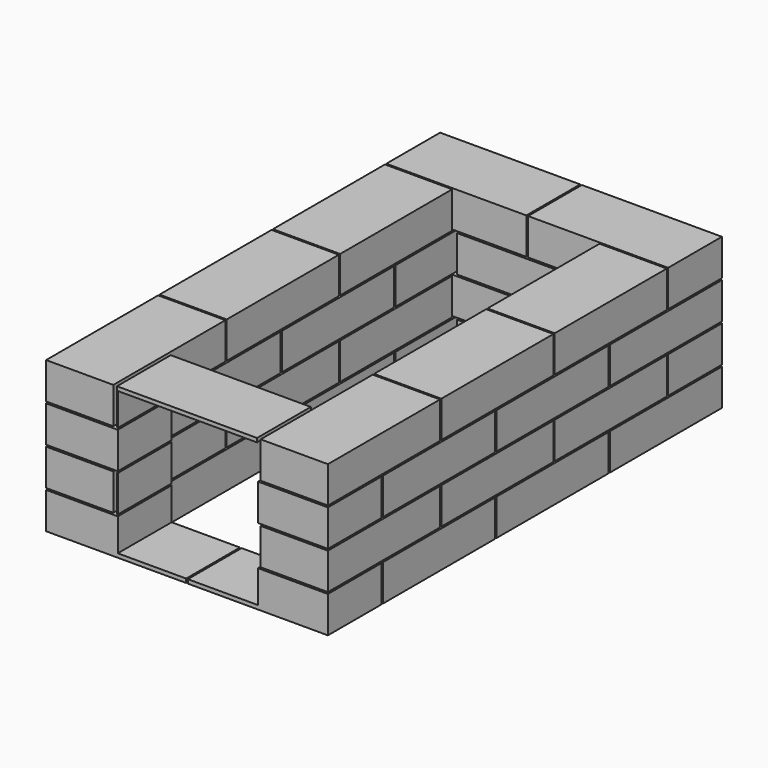
from build123d import *

# Parameters (mm, degrees)
BOX36026_W     = 250
BOX36026_H     = 250
BOX36026_DEPTH = 255
BOX11001_W     = 250
BOX11001_H     = 120
BOX11001_DEPTH = 65
BOX12001_W     = 250
BOX12001_H     = 120
BOX12001_DEPTH = 65
BOX13010_W     = 250
BOX13010_H     = 120
BOX13010_DEPTH = 65
BOX14003_W     = 250
BOX14003_H     = 120
BOX14003_DEPTH = 65
BOX15001_W     = 250
BOX15001_H     = 120
BOX15001_DEPTH = 65
BOX16001_W     = 250
BOX16001_H     = 120
BOX16001_DEPTH = 65
BOX17001_W     = 250
BOX17001_H     = 120
BOX17001_DEPTH = 65
BOX18001_W     = 250
BOX18001_H     = 120
BOX18001_DEPTH = 65
BOX10044_W     = 250
BOX10044_H     = 120
BOX10044_DEPTH = 65
BOX20011_W     = 250
BOX20011_H     = 120
BOX20011_DEPTH = 65
BOX21001_W     = 250
BOX21001_H     = 120
BOX21001_DEPTH = 65
BOX22001_W     = 250
BOX22001_H     = 120
BOX22001_DEPTH = 65
BOX23001_W     = 250
BOX23001_H     = 120
BOX23001_DEPTH = 65
BOX24001_W     = 250
BOX24001_H     = 120
BOX24001_DEPTH = 65
BOX25001_W     = 250
BOX25001_H     = 120
BOX25001_DEPTH = 65
BOX26001_W     = 250
BOX26001_H     = 120
BOX26001_DEPTH = 65
BOX27001_W     = 250
BOX27001_H     = 120
BOX27001_DEPTH = 65
BOX19001_W     = 250
BOX19001_H     = 120
BOX19001_DEPTH = 65
BOX29001_W     = 250
BOX29001_H     = 120
BOX29001_DEPTH = 65
BOX30011_W     = 250
BOX30011_H     = 120
BOX30011_DEPTH = 65
BOX31001_W     = 250
BOX31001_H     = 120
BOX31001_DEPTH = 65
BOX32001_W     = 250
BOX32001_H     = 120
BOX32001_DEPTH = 65
BOX33001_W     = 250
BOX33001_H     = 120
BOX33001_DEPTH = 65
BOX34001_W     = 250
BOX34001_H     = 120
BOX34001_DEPTH = 65
BOX35001_W     = 250
BOX35001_H     = 120
BOX35001_DEPTH = 65
BOX36001_W     = 250
BOX36001_H     = 120
BOX36001_DEPTH = 65
BOX28001_W     = 250
BOX28001_H     = 120
BOX28001_DEPTH = 65
BOX2010_W      = 250
BOX2010_H      = 120
BOX2010_DEPTH  = 65
BOX3010_W      = 250
BOX3010_H      = 120
BOX3010_DEPTH  = 65
BOX4010_W      = 250
BOX4010_H      = 120
BOX4010_DEPTH  = 65
BOX5010_W      = 250
BOX5010_H      = 120
BOX5010_DEPTH  = 65
BOX6010_W      = 250
BOX6010_H      = 120
BOX6010_DEPTH  = 65
BOX7003_W      = 250
BOX7003_H      = 120
BOX7003_DEPTH  = 65
BOX8001_W      = 250
BOX8001_H      = 120
BOX8001_DEPTH  = 65
BOX9001_W      = 250
BOX9001_H      = 120
BOX9001_DEPTH  = 65
BOX1043_W      = 250
BOX1043_H      = 120
BOX1043_DEPTH  = 65


with BuildPart() as box36026:
    with BuildSketch(Plane(origin=(128, -38, 625), x_dir=(1, 0, 0), z_dir=(0, 0, 1))):
        with Locations((125, 125)):
            Rectangle(BOX36026_W, BOX36026_H)
    extrude(amount=BOX36026_DEPTH)


with BuildPart() as box11001:
    with BuildSketch(Plane(origin=(253, 759, 68), x_dir=(1, 0, 0), z_dir=(0, 0, 1))):
        with Locations((125, 60)):
            Rectangle(BOX11001_W, BOX11001_H)
    extrude(amount=BOX11001_DEPTH)


with BuildPart() as box12001:
    with BuildSketch(Plane(origin=(126.5, 0, 68), x_dir=(1, 0, 0), z_dir=(0, 0, 1))):
        with Locations((125, 60)):
            Rectangle(BOX12001_W, BOX12001_H)
    extrude(amount=BOX12001_DEPTH)


with BuildPart() as box13010:
    with BuildSketch(Plane(origin=(120, 0, 68), x_dir=(0, 1, 0), z_dir=(0, 0, 1))):
        with Locations((125, 60)):
            Rectangle(BOX13010_W, BOX13010_H)
    extrude(amount=BOX13010_DEPTH)


with BuildPart() as box14003:
    with BuildSketch(Plane(origin=(120, 253, 68), x_dir=(0, 1, 0), z_dir=(0, 0, 1))):
        with Locations((125, 60)):
            Rectangle(BOX14003_W, BOX14003_H)
    extrude(amount=BOX14003_DEPTH)


with BuildPart() as box15001:
    with BuildSketch(Plane(origin=(120, 506, 68), x_dir=(0, 1, 0), z_dir=(0, 0, 1))):
        with Locations((125, 60)):
            Rectangle(BOX15001_W, BOX15001_H)
    extrude(amount=BOX15001_DEPTH)


with BuildPart() as box16001:
    with BuildSketch(Plane(origin=(503, 0, 68), x_dir=(0, 1, 0), z_dir=(0, 0, 1))):
        with Locations((125, 60)):
            Rectangle(BOX16001_W, BOX16001_H)
    extrude(amount=BOX16001_DEPTH)


with BuildPart() as box17001:
    with BuildSketch(Plane(origin=(503, 253, 68), x_dir=(0, 1, 0), z_dir=(0, 0, 1))):
        with Locations((125, 60)):
            Rectangle(BOX17001_W, BOX17001_H)
    extrude(amount=BOX17001_DEPTH)


with BuildPart() as box18001:
    with BuildSketch(Plane(origin=(503, 506, 68), x_dir=(0, 1, 0), z_dir=(0, 0, 1))):
        with Locations((125, 60)):
            Rectangle(BOX18001_W, BOX18001_H)
    extrude(amount=BOX18001_DEPTH)


with BuildPart() as compound_row1001:
    with BuildSketch(Plane(origin=(0, 759, 68), x_dir=(1, 0, 0), z_dir=(0, 0, 1))):
        with Locations((125, 60)):
            Rectangle(BOX10044_W, BOX10044_H)
    extrude(amount=BOX10044_DEPTH)

    add(box11001.part)
    add(box12001.part)
    add(box13010.part)
    add(box14003.part)
    add(box15001.part)
    add(box16001.part)
    add(box17001.part)
    add(box18001.part)


with BuildPart() as box20011:
    with BuildSketch(Plane(origin=(253, 0, 136), x_dir=(1, 0, 0), z_dir=(0, 0, 1))):
        with Locations((125, 60)):
            Rectangle(BOX20011_W, BOX20011_H)
    extrude(amount=BOX20011_DEPTH)


with BuildPart() as box21001:
    with BuildSketch(Plane(origin=(126.5, 759, 136), x_dir=(1, 0, 0), z_dir=(0, 0, 1))):
        with Locations((125, 60)):
            Rectangle(BOX21001_W, BOX21001_H)
    extrude(amount=BOX21001_DEPTH)


with BuildPart() as box22001:
    with BuildSketch(Plane(origin=(120, 123, 136), x_dir=(0, 1, 0), z_dir=(0, 0, 1))):
        with Locations((125, 60)):
            Rectangle(BOX22001_W, BOX22001_H)
    extrude(amount=BOX22001_DEPTH)


with BuildPart() as box23001:
    with BuildSketch(Plane(origin=(120, 376, 136), x_dir=(0, 1, 0), z_dir=(0, 0, 1))):
        with Locations((125, 60)):
            Rectangle(BOX23001_W, BOX23001_H)
    extrude(amount=BOX23001_DEPTH)


with BuildPart() as box24001:
    with BuildSketch(Plane(origin=(120, 629, 136), x_dir=(0, 1, 0), z_dir=(0, 0, 1))):
        with Locations((125, 60)):
            Rectangle(BOX24001_W, BOX24001_H)
    extrude(amount=BOX24001_DEPTH)


with BuildPart() as box25001:
    with BuildSketch(Plane(origin=(503, 123, 136), x_dir=(0, 1, 0), z_dir=(0, 0, 1))):
        with Locations((125, 60)):
            Rectangle(BOX25001_W, BOX25001_H)
    extrude(amount=BOX25001_DEPTH)


with BuildPart() as box26001:
    with BuildSketch(Plane(origin=(503, 376, 136), x_dir=(0, 1, 0), z_dir=(0, 0, 1))):
        with Locations((125, 60)):
            Rectangle(BOX26001_W, BOX26001_H)
    extrude(amount=BOX26001_DEPTH)


with BuildPart() as box27001:
    with BuildSketch(Plane(origin=(503, 629, 136), x_dir=(0, 1, 0), z_dir=(0, 0, 1))):
        with Locations((125, 60)):
            Rectangle(BOX27001_W, BOX27001_H)
    extrude(amount=BOX27001_DEPTH)


with BuildPart() as compound_row2001:
    with BuildSketch(Plane.XY.offset(136)):
        with Locations((125, 60)):
            Rectangle(BOX19001_W, BOX19001_H)
    extrude(amount=BOX19001_DEPTH)

    add(box20011.part)
    add(box21001.part)
    add(box22001.part)
    add(box23001.part)
    add(box24001.part)
    add(box25001.part)
    add(box26001.part)
    add(box27001.part)


with BuildPart() as box29001:
    with BuildSketch(Plane(origin=(253, 759, 204), x_dir=(1, 0, 0), z_dir=(0, 0, 1))):
        with Locations((125, 60)):
            Rectangle(BOX29001_W, BOX29001_H)
    extrude(amount=BOX29001_DEPTH)


with BuildPart() as box30011:
    with BuildSketch(Plane(origin=(126.5, 0, 204), x_dir=(1, 0, 0), z_dir=(0, 0, 1))):
        with Locations((125, 60)):
            Rectangle(BOX30011_W, BOX30011_H)
    extrude(amount=BOX30011_DEPTH)


with BuildPart() as box31001:
    with BuildSketch(Plane(origin=(120, 0, 204), x_dir=(0, 1, 0), z_dir=(0, 0, 1))):
        with Locations((125, 60)):
            Rectangle(BOX31001_W, BOX31001_H)
    extrude(amount=BOX31001_DEPTH)


with BuildPart() as box32001:
    with BuildSketch(Plane(origin=(120, 253, 204), x_dir=(0, 1, 0), z_dir=(0, 0, 1))):
        with Locations((125, 60)):
            Rectangle(BOX32001_W, BOX32001_H)
    extrude(amount=BOX32001_DEPTH)


with BuildPart() as box33001:
    with BuildSketch(Plane(origin=(120, 506, 204), x_dir=(0, 1, 0), z_dir=(0, 0, 1))):
        with Locations((125, 60)):
            Rectangle(BOX33001_W, BOX33001_H)
    extrude(amount=BOX33001_DEPTH)


with BuildPart() as box34001:
    with BuildSketch(Plane(origin=(503, 0, 204), x_dir=(0, 1, 0), z_dir=(0, 0, 1))):
        with Locations((125, 60)):
            Rectangle(BOX34001_W, BOX34001_H)
    extrude(amount=BOX34001_DEPTH)


with BuildPart() as box35001:
    with BuildSketch(Plane(origin=(503, 253, 204), x_dir=(0, 1, 0), z_dir=(0, 0, 1))):
        with Locations((125, 60)):
            Rectangle(BOX35001_W, BOX35001_H)
    extrude(amount=BOX35001_DEPTH)


with BuildPart() as box36001:
    with BuildSketch(Plane(origin=(503, 506, 204), x_dir=(0, 1, 0), z_dir=(0, 0, 1))):
        with Locations((125, 60)):
            Rectangle(BOX36001_W, BOX36001_H)
    extrude(amount=BOX36001_DEPTH)


with BuildPart() as compound_row3001:
    with BuildSketch(Plane(origin=(0, 759, 204), x_dir=(1, 0, 0), z_dir=(0, 0, 1))):
        with Locations((125, 60)):
            Rectangle(BOX28001_W, BOX28001_H)
    extrude(amount=BOX28001_DEPTH)

    add(box29001.part)
    add(box30011.part)
    add(box31001.part)
    add(box32001.part)
    add(box33001.part)
    add(box34001.part)
    add(box35001.part)
    add(box36001.part)


with BuildPart() as box2010:
    # Box2010 → Box2010 (new body)
    with BuildSketch(Plane(origin=(253, 0, 0), x_dir=(1, 0, 0), z_dir=(0, 0, 1))):
        with Locations((125, 60)):
            Rectangle(BOX2010_W, BOX2010_H)
    extrude(amount=BOX2010_DEPTH)


with BuildPart() as box3010:
    # Box3010 → Box3010 (new body)
    with BuildSketch(Plane(origin=(126.5, 759, 0), x_dir=(1, 0, 0), z_dir=(0, 0, 1))):
        with Locations((125, 60)):
            Rectangle(BOX3010_W, BOX3010_H)
    extrude(amount=BOX3010_DEPTH)


with BuildPart() as box4010:
    # Box4010 → Box4010 (new body)
    with BuildSketch(Plane(origin=(120, 123, 0), x_dir=(0, 1, 0), z_dir=(0, 0, 1))):
        with Locations((125, 60)):
            Rectangle(BOX4010_W, BOX4010_H)
    extrude(amount=BOX4010_DEPTH)


with BuildPart() as box5010:
    # Box5010 → Box5010 (new body)
    with BuildSketch(Plane(origin=(120, 376, 0), x_dir=(0, 1, 0), z_dir=(0, 0, 1))):
        with Locations((125, 60)):
            Rectangle(BOX5010_W, BOX5010_H)
    extrude(amount=BOX5010_DEPTH)


with BuildPart() as box6010:
    # Box6010 → Box6010 (new body)
    with BuildSketch(Plane(origin=(120, 629, 0), x_dir=(0, 1, 0), z_dir=(0, 0, 1))):
        with Locations((125, 60)):
            Rectangle(BOX6010_W, BOX6010_H)
    extrude(amount=BOX6010_DEPTH)


with BuildPart() as box7003:
    # Box7003 → Box7003 (new body)
    with BuildSketch(Plane(origin=(503, 123, 0), x_dir=(0, 1, 0), z_dir=(0, 0, 1))):
        with Locations((125, 60)):
            Rectangle(BOX7003_W, BOX7003_H)
    extrude(amount=BOX7003_DEPTH)


with BuildPart() as box8001:
    # Box8001 → Box8001 (new body)
    with BuildSketch(Plane(origin=(503, 376, 0), x_dir=(0, 1, 0), z_dir=(0, 0, 1))):
        with Locations((125, 60)):
            Rectangle(BOX8001_W, BOX8001_H)
    extrude(amount=BOX8001_DEPTH)


with BuildPart() as box9001:
    # Box9001 → Box9001 (new body)
    with BuildSketch(Plane(origin=(503, 629, 0), x_dir=(0, 1, 0), z_dir=(0, 0, 1))):
        with Locations((125, 60)):
            Rectangle(BOX9001_W, BOX9001_H)
    extrude(amount=BOX9001_DEPTH)


with BuildPart() as cut011:
    # Box1043 → Box1043 (new body)
    with BuildSketch(Plane.XY):
        with Locations((125, 60)):
            Rectangle(BOX1043_W, BOX1043_H)
    extrude(amount=BOX1043_DEPTH)

    # Compound_row0001: union Box2010, Box3010, Box4010, Box5010, Box6010, Box7003, Box8001, Box9001
    add(box2010.part)
    add(box3010.part)
    add(box4010.part)
    add(box5010.part)
    add(box6010.part)
    add(box7003.part)
    add(box8001.part)
    add(box9001.part)

    # Compound042: union Compound_row1001, Compound_row2001, Compound_row3001
    add(compound_row1001.part)
    add(compound_row2001.part)
    add(compound_row3001.part)


with BuildPart() as cut011_1:
    # Compound042 placement: moved
    add(cut011.part.moved(Location((0, 0, 618))))

    # Cut011: cut Box36026
    add(box36026.part, mode=Mode.SUBTRACT)


solid = cut011_1.part
